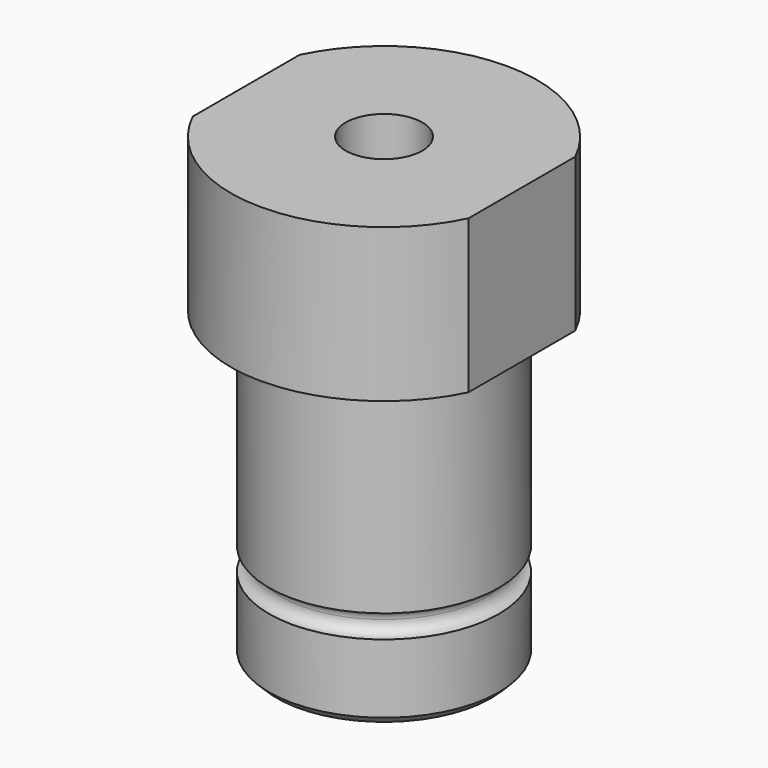
from build123d import *

# Parameters (mm, degrees)
F0_R     = 15
F1_DEPTH = 40
F2_R     = 20
F4_DEPTH = 20
F5_R     = 5
F6_DEPTH = 60.001
F8_DEPTH = 60.001
F9_R     = 1.5
F11_SIZE = 1


with BuildPart() as f1:
    # F0 (on Top) → F1 (new body)
    with BuildSketch(Plane.XY):
        Circle(F0_R)
    extrude(amount=F1_DEPTH)

    # F2 (on face) → F4 (join, through all)
    with BuildSketch(Plane.XY.offset(40)):
        Circle(F2_R)
    extrude(amount=F4_DEPTH)

    # F5 (on face) → F6 (cut, through all)
    with BuildSketch(Plane.XY.offset(60)):
        Circle(F5_R)
    extrude(amount=-F6_DEPTH, mode=Mode.SUBTRACT)

    # F7 (on face) → F8 (cut, through all)
    with BuildSketch(Plane.XY.offset(60)):
        with BuildLine():
            Line((-18, -8.7177978871), (-18, 0))
            Line((-18, 0), (-18, 8.7177978871))
            ThreePointArc((-18, 8.7177978871), (-20, 0), (-18, -8.7177978871))
        make_face()
        with BuildLine():
            Line((18, 8.7177978871), (18, 0))
            Line((18, 0), (18, -8.7177978871))
            ThreePointArc((18, -8.7177978871), (19.4935886896, -4.472135955), (20, 0))
            ThreePointArc((20, 0), (19.4935886896, 4.472135955), (18, 8.7177978871))
        make_face()
    extrude(amount=-F8_DEPTH, mode=Mode.SUBTRACT)

    # F9 (on Right) → F10 (revolve, cut)
    with BuildSketch(Plane.YZ):
        with Locations((-15, 11.5)):
            Circle(F9_R)
    revolve(axis=Axis((0, 0, 0), (0, 0, -1)), mode=Mode.SUBTRACT)

    # F11
    f11_edges = [f1.edges().sort_by_distance(p)[0] for p in [
        (-15, 0, 0),
    ]]
    chamfer(f11_edges, length=F11_SIZE)


solid = f1.part
